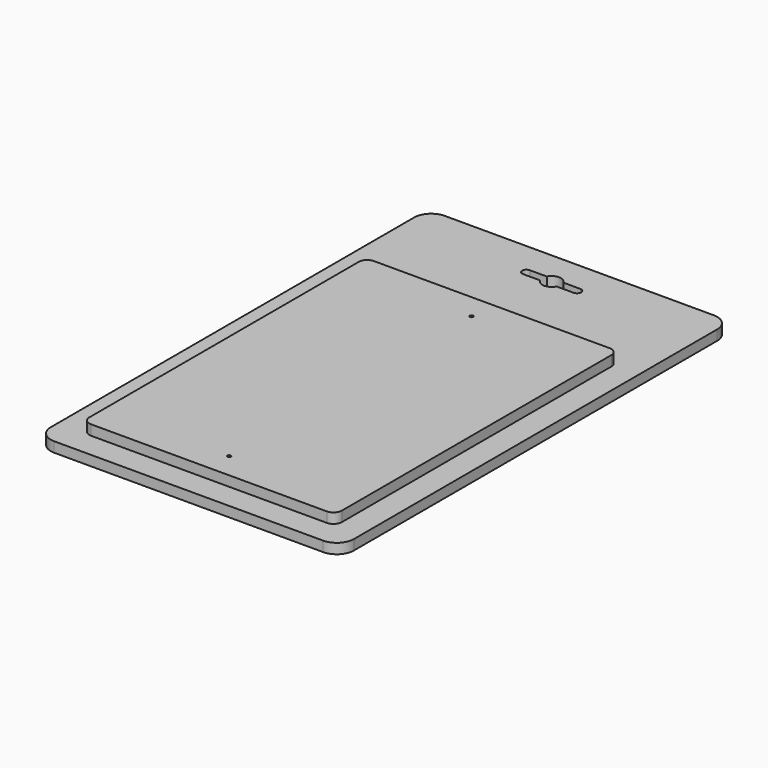
from build123d import *

# Parameters (mm, degrees)
F1_DEPTH  = 6
F2_W      = 180
F2_H      = 240
F3_DEPTH  = 6
F4_W      = 180
F4_H      = 50
F5_DEPTH  = 6
F6_R      = 10.1
F8_DEPTH  = 25
F9_R      = 1
F10_DEPTH = 25


with BuildPart() as f1:
    # F0 (on Top) → F1 (new body)
    with BuildSketch(Plane.XY):
        with BuildLine():
            ThreePointArc((75, 100), (73.5355339059, 103.5355339059), (70, 105))
            Line((70, 105), (-70, 105))
            ThreePointArc((-70, 105), (-73.5355339059, 103.5355339059), (-75, 100))
            Line((-75, 100), (-75, -100))
            ThreePointArc((-75, -100), (-73.5355339059, -103.5355339059), (-70, -105))
            Line((-70, -105), (70, -105))
            ThreePointArc((70, -105), (73.5355339059, -103.5355339059), (75, -100))
            Line((75, -100), (75, 100))
        make_face()
    extrude(amount=F1_DEPTH)

    # F2 (on face) → F3 (join)
    with BuildSketch(Plane(origin=(0, 0, 0), x_dir=(1, 0, 0), z_dir=(0, 0, -1))):
        Rectangle(F2_W, F2_H)
        with BuildLine():
            ThreePointArc((75, -100), (73.5355339059, -103.5355339059), (70, -105))
            Line((70, -105), (-70, -105))
            ThreePointArc((-70, -105), (-73.5355339059, -103.5355339059), (-75, -100))
            Line((-75, -100), (-75, 100))
            ThreePointArc((-75, 100), (-73.5355339059, 103.5355339059), (-70, 105))
            Line((-70, 105), (70, 105))
            ThreePointArc((70, 105), (73.5355339059, 103.5355339059), (75, 100))
            Line((75, 100), (75, -100))
        make_face(mode=Mode.SUBTRACT)
        with BuildLine():
            Line((-70, -105), (70, -105))
            ThreePointArc((70, -105), (73.5355339059, -103.5355339059), (75, -100))
            Line((75, -100), (75, 100))
            ThreePointArc((75, 100), (73.5355339059, 103.5355339059), (70, 105))
            Line((70, 105), (-70, 105))
            ThreePointArc((-70, 105), (-73.5355339059, 103.5355339059), (-75, 100))
            Line((-75, 100), (-75, -100))
            ThreePointArc((-75, -100), (-73.5355339059, -103.5355339059), (-70, -105))
        make_face()
    extrude(amount=F3_DEPTH)

    # F4 (on face) → F5 (join)
    with BuildSketch(Plane.XY):
        with Locations((0, 145)):
            Rectangle(F4_W, F4_H)
    extrude(amount=-F5_DEPTH)

    # F6
    f6_edges = [f1.edges().sort_by_distance(p)[0] for p in [
        (-90, 170, -3),
        (90, 170, -3),
        (-90, -120, -3),
        (90, -120, -3),
    ]]
    fillet(f6_edges, radius=F6_R)

    # F7 (on face) → F8 (cut)
    with BuildSketch(Plane.XY):
        with BuildLine():
            ThreePointArc((4.8989794856, 147), (5.3476343915, 148.2143848108), (5.5, 149.5))
            ThreePointArc((5.5, 149.5), (5.3476343915, 150.7856151892), (4.8989794856, 152))
            Line((4.8989794856, 152), (-4.8989794856, 152))
            ThreePointArc((-4.8989794856, 152), (-5.5, 149.5), (-4.8989794856, 147))
            Line((-4.8989794856, 147), (4.8989794856, 147))
        make_face()
        with BuildLine():
            ThreePointArc((4.8989794856, 152), (5.3476343915, 150.7856151892), (5.5, 149.5))
            ThreePointArc((5.5, 149.5), (5.3476343915, 148.2143848108), (4.8989794856, 147))
            Line((4.8989794856, 147), (15, 147))
            ThreePointArc((15, 147), (16.767766953, 147.732233047), (17.5, 149.5))
            ThreePointArc((17.5, 149.5), (16.767766953, 151.267766953), (15, 152))
            Line((15, 152), (4.8989794856, 152))
        make_face()
        with BuildLine():
            Line((-4.8989794856, 152), (4.8989794856, 152))
            ThreePointArc((4.8989794856, 152), (0, 155), (-4.8989794856, 152))
        make_face()
        with BuildLine():
            ThreePointArc((-4.8989794856, 147), (0, 144), (4.8989794856, 147))
            Line((4.8989794856, 147), (-4.8989794856, 147))
        make_face()
        with BuildLine():
            ThreePointArc((-4.8989794856, 147), (-5.5, 149.5), (-4.8989794856, 152))
            Line((-4.8989794856, 152), (-15, 152))
            ThreePointArc((-15, 152), (-16.767766953, 151.267766953), (-17.5, 149.5))
            ThreePointArc((-17.5, 149.5), (-16.767766953, 147.732233047), (-15, 147))
            Line((-15, 147), (-4.8989794856, 147))
        make_face()
    extrude(amount=-F8_DEPTH, mode=Mode.SUBTRACT)

    # F9 (on face) → F10 (cut)
    with BuildSketch(Plane.XY.offset(6)):
        with Locations((0, 90)):
            Circle(F9_R)
        with Locations((0, -90)):
            Circle(F9_R)
    extrude(amount=-F10_DEPTH, mode=Mode.SUBTRACT)


solid = f1.part
